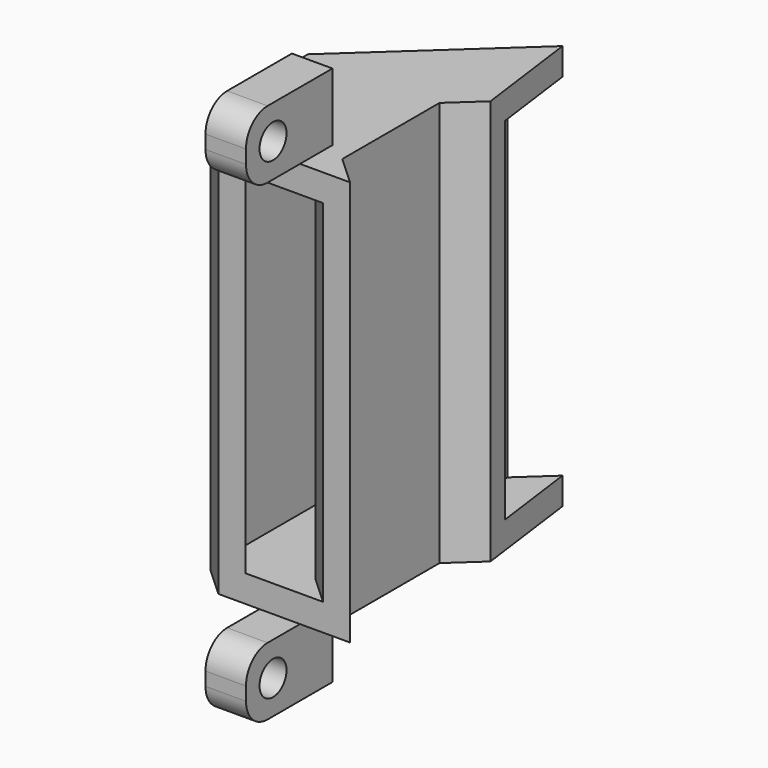
from build123d import *

# Parameters (mm, degrees)
PAD007_DEPTH    = 30
SKETCH021_W     = 5.75
SKETCH021_H     = 26
SKETCH023_W     = 2.875
SKETCH023_H     = 26
POCKET009_DEPTH = 5
SKETCH024_W     = 3
SKETCH024_H     = 3
PAD008_DEPTH    = 5
PAD008_FACE6_W  = 3
PAD008_FACE6_H  = 5
PAD009_DEPTH    = 5
SKETCH025_W     = 3
SKETCH025_H     = 3
PAD010_DEPTH    = 5
PAD010_FACE7_W  = 3
PAD010_FACE7_H  = 5
PAD011_DEPTH    = 5
SKETCH026_R     = 1.25
POCKET010_DEPTH = 5
FILLET_R        = 2


with BuildPart() as part:
    # Sketch020 → Pad007 (new body)
    with BuildSketch(Plane.XY):
        Polygon((-9.75, -21), (-11.9217087917, -19), (-11.9217087917, -10), (-1.063164833, 0), (0, -8), (-2.1717087917, -10), (-2.1717087917, -19), (0, -21), align=None)
    extrude(amount=PAD007_DEPTH)

    # SubtractivePipe: sweep along a path in Sketch022
    with BuildLine(Plane.XY.offset(30)) as subtractivepipe_path:
        Line((-4.875, -21), (-7.0467087917, -19))
        Line((-7.0467087917, -19), (-7.0467087917, -10))
        Line((-7.0467087917, -10), (-0.5315824165, -4))
    # Sketch021 (on Face8 of Pad007) → SubtractivePipe (sweep, cut)
    with BuildSketch(Plane.XZ.offset(21)):
        with Locations((-4.875, 15)):
            Rectangle(SKETCH021_W, SKETCH021_H)
    sweep(path=subtractivepipe_path.line, mode=Mode.SUBTRACT)

    # Sketch023 (on Face22 of SubtractivePipe) → Pocket009 (cut)
    with BuildSketch(Plane.XZ.offset(4)):
        with Locations((-1.9690824165, 15)):
            Rectangle(SKETCH023_W, SKETCH023_H)
    extrude(amount=-POCKET009_DEPTH, mode=Mode.SUBTRACT)

    # Sketch024 (on Face4 of Pocket009) → Pad008 (join)
    with BuildSketch(Plane(origin=(0, 0, 0), x_dir=(1, 0, 0), z_dir=(0, 0, -1))):
        with Locations((-5.2, 19.5)):
            Rectangle(SKETCH024_W, SKETCH024_H)
    extrude(amount=PAD008_DEPTH)

    # Pad008 Face6 → Pad009 (add)
    with BuildSketch(Plane(origin=(-5.2, -21, -2.5), x_dir=(-1, 0, 0), z_dir=(0, -1, 0))):
        Rectangle(PAD008_FACE6_W, PAD008_FACE6_H)
    extrude(amount=PAD009_DEPTH)

    # Sketch025 (on Face5 of Pad009) → Pad010 (join)
    with BuildSketch(Plane.XY.offset(30)):
        with Locations((-5.2, -19.5)):
            Rectangle(SKETCH025_W, SKETCH025_H)
    extrude(amount=PAD010_DEPTH)

    # Pad010 Face7 → Pad011 (add)
    with BuildSketch(Plane(origin=(-5.2, -21, 32.5), x_dir=(-1, 0, 0), z_dir=(0, -1, 0))):
        Rectangle(PAD010_FACE7_W, PAD010_FACE7_H)
    extrude(amount=PAD011_DEPTH)

    # Sketch026 → Pocket010 (cut)
    with BuildSketch(Plane(origin=(-6.7, 0, 0), x_dir=(0, -1, 0), z_dir=(-1, 0, 0))):
        with Locations((23.5, -2.5)):
            Circle(SKETCH026_R)
        with Locations((23.5, 32.5)):
            Circle(SKETCH026_R)
    extrude(amount=-POCKET010_DEPTH, mode=Mode.SUBTRACT)

    # Fillet
    fillet_edges = [part.edges().sort_by_distance(p)[0] for p in [
        (-5.2, -26, 35),
        (-5.2, -26, 30),
        (-5.2, -26, 0),
        (-5.2, -26, -5),
    ]]
    fillet(fillet_edges, radius=FILLET_R)


with BuildPart() as part_1:
    # Body002 placement: moved
    add(part.part.moved(Location((-0.2, 61.7, -30.6))))


solid = part_1.part
